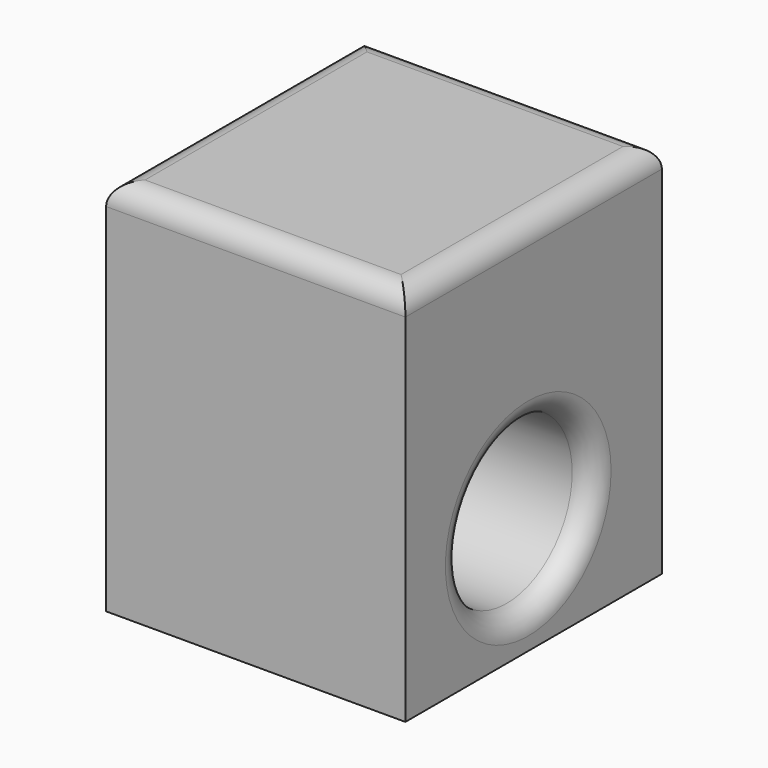
from build123d import *

# Parameters (mm, degrees)
F0_W     = 75.365622
F0_H     = 88.876544
F0_R     = 19.261813
F1_DEPTH = 70.358
F2_R     = 5.08


with BuildPart() as f1:
    # F0 (on Right) → F1 (new body)
    with BuildSketch(Plane.YZ):
        with Locations((1.58331, 16.994209)):
            Rectangle(F0_W, F0_H)
        Circle(F0_R, mode=Mode.SUBTRACT)
    extrude(amount=F1_DEPTH)

    # F2
    f2_edges = [f1.edges().sort_by_distance(p)[0] for p in [
        (35.179, -36.099501, 61.432481),
        (35.179, 39.266121, 61.432481),
        (70.358, 1.58331, 61.432481),
        (0, 1.58331, 61.432481),
        (70.358, -19.261813, 0),
    ]]
    fillet(f2_edges, radius=F2_R)


solid = f1.part
